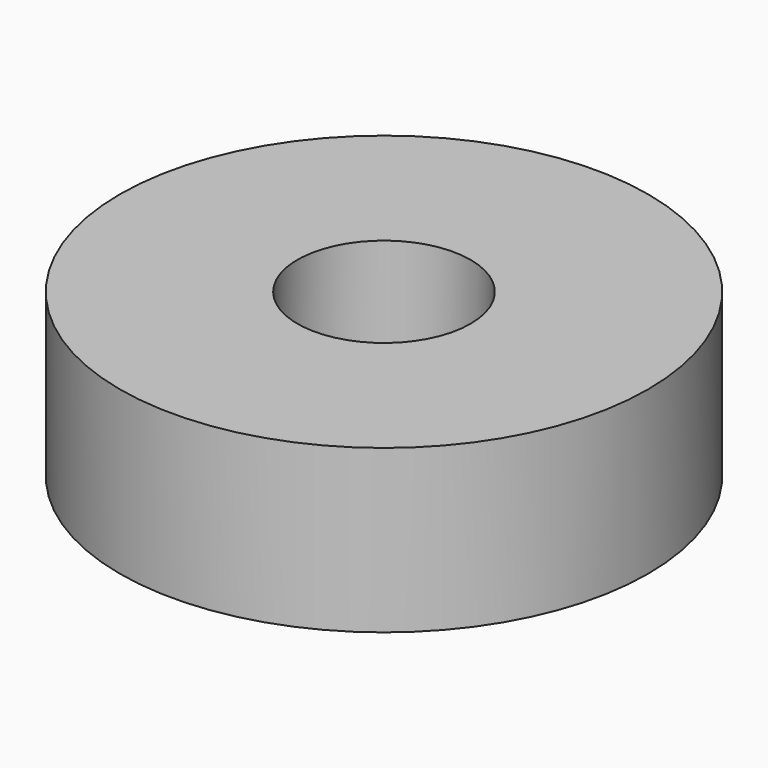
from build123d import *

# Parameters (mm, degrees)
F0_R     = 12.2
F0_R_2   = 4
F1_DEPTH = 7.5
F2_DEPTH = 2


with BuildPart() as f1:
    # F0 (on Top) → F1 (new body)
    with BuildSketch(Plane.XY):
        Circle(F0_R)
        Polygon((7.361216, 0), (3.680608, -6.375), (-3.680608, -6.375), (-7.361216, 0), (-3.680608, 6.375), (3.680608, 6.375), align=None, mode=Mode.SUBTRACT)
        Polygon((-3.680608, -6.375), (3.680608, -6.375), (7.361216, 0), (3.680608, 6.375), (-3.680608, 6.375), (-7.361216, 0), align=None)
        Circle(F0_R_2, mode=Mode.SUBTRACT)
    extrude(amount=F1_DEPTH)

    # F0 (on Top) → F2 (cut)
    with BuildSketch(Plane.XY):
        Circle(F0_R_2)
        Polygon((-3.680608, -6.375), (3.680608, -6.375), (7.361216, 0), (3.680608, 6.375), (-3.680608, 6.375), (-7.361216, 0), align=None)
        Circle(F0_R_2, mode=Mode.SUBTRACT)
    extrude(amount=F2_DEPTH, mode=Mode.SUBTRACT)


solid = f1.part
